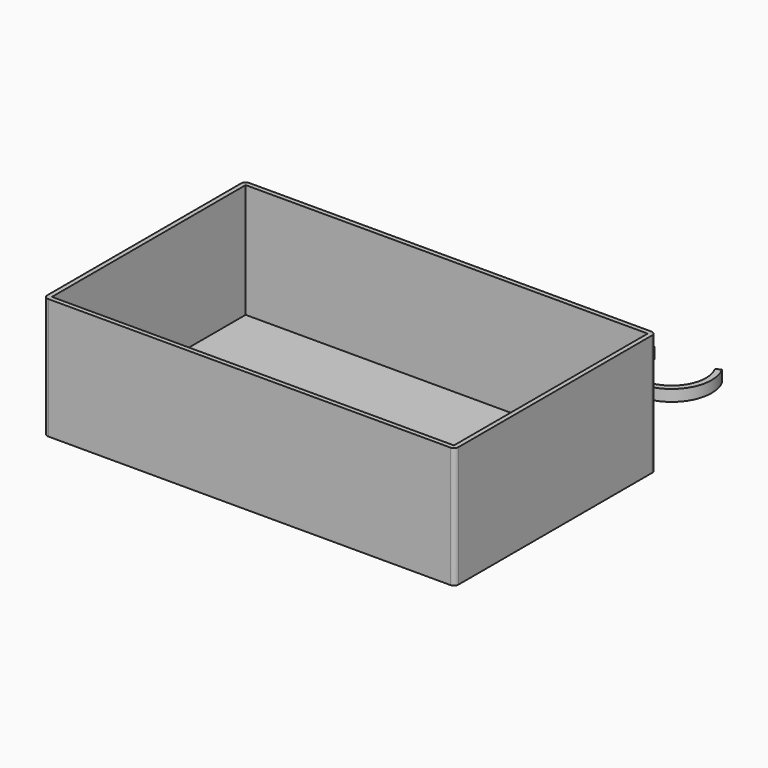
from build123d import *

# Parameters (mm, degrees)
F1_DEPTH      = 3
F3_DEPTH      = 50
F4_DEPTH      = 2
F5_R          = 65
F6_DEPTH      = 120.0131182079
F6_DEPTH_BACK = 70


with BuildPart() as f1:
    # F0 (on Top) → F1 (new body)
    with BuildSketch(Plane.XY):
        with BuildLine():
            ThreePointArc((-67.0229373247, 119.8506346331), (-67.6147835705, 104.9467461722), (-56.5, 95))
            ThreePointArc((-56.5, 95), (-51.5, 94.2705098312), (-46.5, 95))
            ThreePointArc((-46.5, 95), (-35.3852164295, 104.9467461722), (-35.9770626753, 119.8506346331))
            ThreePointArc((-35.9770626753, 119.8506346331), (-36.1592170528, 120.0001318772), (-36.3931701723, 119.971925829))
            Line((-36.3931701723, 119.971925829), (-38.0403835084, 119.020906766))
            ThreePointArc((-38.0403835084, 119.020906766), (-38.178168335, 118.8458333976), (-38.1572387337, 118.6240287662))
            ThreePointArc((-38.1572387337, 118.6240287662), (-51.5, 96.7705098312), (-64.8427612663, 118.6240287662))
            ThreePointArc((-64.8427612663, 118.6240287662), (-64.821831665, 118.8458333976), (-64.9596164916, 119.020906766))
            Line((-64.9596164916, 119.020906766), (-66.6068298277, 119.971925829))
            ThreePointArc((-66.6068298277, 119.971925829), (-66.8407829472, 120.0001318772), (-67.0229373247, 119.8506346331))
        make_face()
        with BuildLine():
            Line((-56.5, 95), (-56.5, 55))
            Line((-56.5, 55), (-46.5, 55))
            Line((-46.5, 55), (-46.5, 95))
            ThreePointArc((-46.5, 95), (-51.5, 94.2705098312), (-56.5, 95))
        make_face()
        with BuildLine():
            Line((46.5, 55), (56.5, 55))
            Line((56.5, 55), (56.5, 95))
            ThreePointArc((56.5, 95), (51.5, 94.2705098312), (46.5, 95))
            Line((46.5, 95), (46.5, 55))
        make_face()
        with BuildLine():
            Line((-88, -55), (88, -55))
            ThreePointArc((88, -55), (89.4142135624, -54.4142135624), (90, -53))
            Line((90, -53), (90, 53))
            ThreePointArc((90, 53), (89.4142135624, 54.4142135624), (88, 55))
            Line((88, 55), (56.5, 55))
            Line((56.5, 55), (46.5, 55))
            Line((46.5, 55), (-46.5, 55))
            Line((-46.5, 55), (-56.5, 55))
            Line((-56.5, 55), (-88, 55))
            ThreePointArc((-88, 55), (-89.4142135624, 54.4142135624), (-90, 53))
            Line((-90, 53), (-90, -53))
            ThreePointArc((-90, -53), (-89.4142135624, -54.4142135624), (-88, -55))
        make_face()
        with BuildLine():
            ThreePointArc((46.5, 95), (51.5, 94.2705098312), (56.5, 95))
            ThreePointArc((56.5, 95), (67.6147835705, 104.9467461722), (67.0229373247, 119.8506346331))
            ThreePointArc((67.0229373247, 119.8506346331), (66.8416372621, 119.999881477), (66.6083744282, 119.9728115034))
            Line((66.6083744282, 119.9728115034), (64.9559948815, 119.031841137))
            ThreePointArc((64.9559948815, 119.031841137), (64.8168865883, 118.8566295505), (64.837696354, 118.6338804295))
            ThreePointArc((64.837696354, 118.6338804295), (51.494682782, 96.7705107737), (38.1671728693, 118.6433346293))
            ThreePointArc((38.1671728693, 118.6433346293), (38.1878631933, 118.8669988874), (38.0474675348, 119.0423352753))
            Line((38.0474675348, 119.0423352753), (36.3900688241, 119.9735613901))
            ThreePointArc((36.3900688241, 119.9735613901), (36.157480746, 119.9995347637), (35.9770092024, 119.8505319041))
            ThreePointArc((35.9770092024, 119.8505319041), (35.385239009, 104.9466928494), (46.5, 95))
        make_face()
    extrude(amount=F1_DEPTH)

    # F2 (on face) → F3 (join)
    with BuildSketch(Plane.XY.offset(3)):
        with BuildLine():
            Line((-46.5, 55), (-56.5, 55))
            Line((-56.5, 55), (-88, 55))
            ThreePointArc((-88, 55), (-89.4142135624, 54.4142135624), (-90, 53))
            Line((-90, 53), (-90, -53))
            ThreePointArc((-90, -53), (-89.4142135624, -54.4142135624), (-88, -55))
            Line((-88, -55), (88, -55))
            ThreePointArc((88, -55), (89.4142135624, -54.4142135624), (90, -53))
            Line((90, -53), (90, 53))
            ThreePointArc((90, 53), (89.4142135624, 54.4142135624), (88, 55))
            Line((88, 55), (56.5, 55))
            Line((56.5, 55), (46.5, 55))
            Line((46.5, 55), (-46.5, 55))
        make_face()
        Polygon((-88, 53), (-56.5, 53), (-46.5, 53), (46.5, 53), (56.5, 53), (88, 53), (88, -53), (-88, -53), align=None, mode=Mode.SUBTRACT)
    extrude(amount=F3_DEPTH)

    # F4 (add): faces of the model
    f4_faces = [f1.faces().sort_by_distance(p)[0] for p in [
        (51.4996732425, 83.726401448, 3),
        (-51.5, 83.7238009637, 3),
    ]]
    extrude(f4_faces, amount=F4_DEPTH)

    # F5 (on Front) → F6 (cut, two sides)
    with BuildSketch(Plane.XZ) as f6_sk:
        with Locations((0, 185)):
            Circle(F5_R)
    extrude(amount=-F6_DEPTH, mode=Mode.SUBTRACT)
    extrude(f6_sk.sketch, amount=F6_DEPTH_BACK, mode=Mode.SUBTRACT)


solid = f1.part
